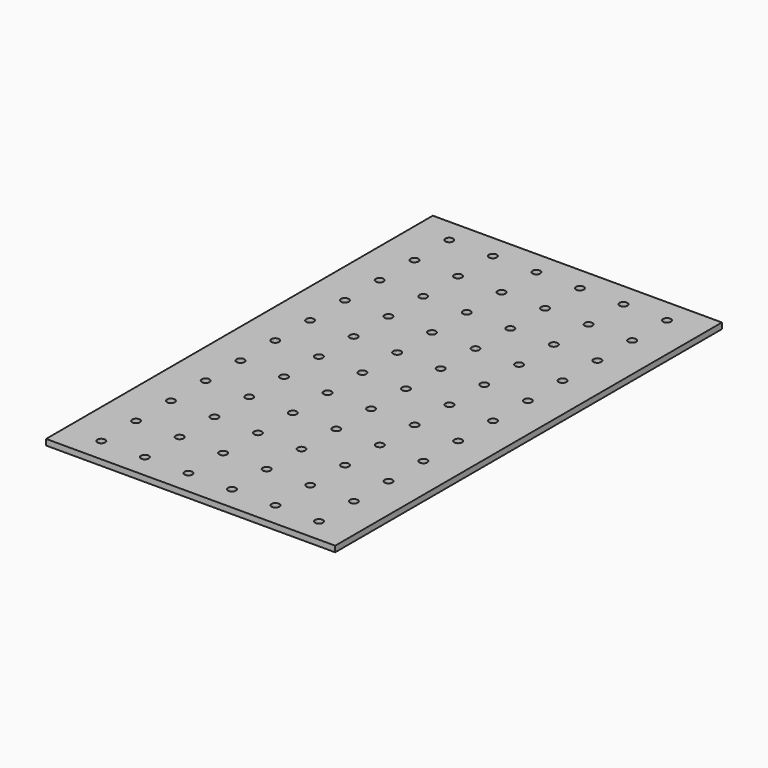
from build123d import *

# Parameters (mm, degrees)
SKETCH_W      = 295.275
SKETCH_H      = 493.7252
SKETCH_R      = 3.9751
EXTRUDE_DEPTH = 5.9944


with BuildPart() as part:
    # Sketch → Extrude (new body)
    with BuildSketch(Plane.XY):
        with Locations((357.803921, -635.24574)):
            Rectangle(SKETCH_W, SKETCH_H)
        with Locations((246.691621, -412.99574)):
            Circle(SKETCH_R, mode=Mode.SUBTRACT)
        with Locations((291.141617, -412.976861)):
            Circle(SKETCH_R, mode=Mode.SUBTRACT)
        with Locations((335.591613, -412.957982)):
            Circle(SKETCH_R, mode=Mode.SUBTRACT)
        with Locations((380.041609, -412.939103)):
            Circle(SKETCH_R, mode=Mode.SUBTRACT)
        with Locations((424.491605, -412.920223)):
            Circle(SKETCH_R, mode=Mode.SUBTRACT)
        with Locations((468.941601, -412.901344)):
            Circle(SKETCH_R, mode=Mode.SUBTRACT)
        with Locations((246.7105, -457.445736)):
            Circle(SKETCH_R, mode=Mode.SUBTRACT)
        with Locations((291.160496, -457.426857)):
            Circle(SKETCH_R, mode=Mode.SUBTRACT)
        with Locations((335.610492, -457.407978)):
            Circle(SKETCH_R, mode=Mode.SUBTRACT)
        with Locations((380.060488, -457.389098)):
            Circle(SKETCH_R, mode=Mode.SUBTRACT)
        with Locations((424.510484, -457.370219)):
            Circle(SKETCH_R, mode=Mode.SUBTRACT)
        with Locations((468.96048, -457.35134)):
            Circle(SKETCH_R, mode=Mode.SUBTRACT)
        with Locations((246.729379, -501.895732)):
            Circle(SKETCH_R, mode=Mode.SUBTRACT)
        with Locations((291.179375, -501.876853)):
            Circle(SKETCH_R, mode=Mode.SUBTRACT)
        with Locations((335.629371, -501.857974)):
            Circle(SKETCH_R, mode=Mode.SUBTRACT)
        with Locations((380.079367, -501.839094)):
            Circle(SKETCH_R, mode=Mode.SUBTRACT)
        with Locations((424.529363, -501.820215)):
            Circle(SKETCH_R, mode=Mode.SUBTRACT)
        with Locations((468.979359, -501.801336)):
            Circle(SKETCH_R, mode=Mode.SUBTRACT)
        with Locations((246.748258, -546.345728)):
            Circle(SKETCH_R, mode=Mode.SUBTRACT)
        with Locations((291.198254, -546.326849)):
            Circle(SKETCH_R, mode=Mode.SUBTRACT)
        with Locations((335.64825, -546.30797)):
            Circle(SKETCH_R, mode=Mode.SUBTRACT)
        with Locations((380.098246, -546.28909)):
            Circle(SKETCH_R, mode=Mode.SUBTRACT)
        with Locations((424.548242, -546.270211)):
            Circle(SKETCH_R, mode=Mode.SUBTRACT)
        with Locations((468.998238, -546.251332)):
            Circle(SKETCH_R, mode=Mode.SUBTRACT)
        with Locations((246.767138, -590.795724)):
            Circle(SKETCH_R, mode=Mode.SUBTRACT)
        with Locations((291.217134, -590.776845)):
            Circle(SKETCH_R, mode=Mode.SUBTRACT)
        with Locations((335.66713, -590.757966)):
            Circle(SKETCH_R, mode=Mode.SUBTRACT)
        with Locations((380.117126, -590.739086)):
            Circle(SKETCH_R, mode=Mode.SUBTRACT)
        with Locations((424.567122, -590.720207)):
            Circle(SKETCH_R, mode=Mode.SUBTRACT)
        with Locations((469.017118, -590.701328)):
            Circle(SKETCH_R, mode=Mode.SUBTRACT)
        with Locations((246.786017, -635.24572)):
            Circle(SKETCH_R, mode=Mode.SUBTRACT)
        with Locations((291.236013, -635.226841)):
            Circle(SKETCH_R, mode=Mode.SUBTRACT)
        with Locations((335.686009, -635.207962)):
            Circle(SKETCH_R, mode=Mode.SUBTRACT)
        with Locations((380.136005, -635.189082)):
            Circle(SKETCH_R, mode=Mode.SUBTRACT)
        with Locations((424.586001, -635.170203)):
            Circle(SKETCH_R, mode=Mode.SUBTRACT)
        with Locations((469.035997, -635.151324)):
            Circle(SKETCH_R, mode=Mode.SUBTRACT)
        with Locations((246.804896, -679.695716)):
            Circle(SKETCH_R, mode=Mode.SUBTRACT)
        with Locations((291.254892, -679.676837)):
            Circle(SKETCH_R, mode=Mode.SUBTRACT)
        with Locations((335.704888, -679.657958)):
            Circle(SKETCH_R, mode=Mode.SUBTRACT)
        with Locations((380.154884, -679.639078)):
            Circle(SKETCH_R, mode=Mode.SUBTRACT)
        with Locations((424.60488, -679.620199)):
            Circle(SKETCH_R, mode=Mode.SUBTRACT)
        with Locations((469.054876, -679.60132)):
            Circle(SKETCH_R, mode=Mode.SUBTRACT)
        with Locations((246.823775, -724.145712)):
            Circle(SKETCH_R, mode=Mode.SUBTRACT)
        with Locations((291.273771, -724.126833)):
            Circle(SKETCH_R, mode=Mode.SUBTRACT)
        with Locations((335.723767, -724.107954)):
            Circle(SKETCH_R, mode=Mode.SUBTRACT)
        with Locations((380.173763, -724.089074)):
            Circle(SKETCH_R, mode=Mode.SUBTRACT)
        with Locations((424.623759, -724.070195)):
            Circle(SKETCH_R, mode=Mode.SUBTRACT)
        with Locations((469.073755, -724.051316)):
            Circle(SKETCH_R, mode=Mode.SUBTRACT)
        with Locations((246.842655, -768.595708)):
            Circle(SKETCH_R, mode=Mode.SUBTRACT)
        with Locations((291.292651, -768.576829)):
            Circle(SKETCH_R, mode=Mode.SUBTRACT)
        with Locations((335.742647, -768.55795)):
            Circle(SKETCH_R, mode=Mode.SUBTRACT)
        with Locations((380.192643, -768.53907)):
            Circle(SKETCH_R, mode=Mode.SUBTRACT)
        with Locations((424.642639, -768.520191)):
            Circle(SKETCH_R, mode=Mode.SUBTRACT)
        with Locations((469.092635, -768.501312)):
            Circle(SKETCH_R, mode=Mode.SUBTRACT)
        with Locations((246.861534, -813.045704)):
            Circle(SKETCH_R, mode=Mode.SUBTRACT)
        with Locations((291.31153, -813.026825)):
            Circle(SKETCH_R, mode=Mode.SUBTRACT)
        with Locations((335.761526, -813.007946)):
            Circle(SKETCH_R, mode=Mode.SUBTRACT)
        with Locations((380.211522, -812.989066)):
            Circle(SKETCH_R, mode=Mode.SUBTRACT)
        with Locations((424.661518, -812.970187)):
            Circle(SKETCH_R, mode=Mode.SUBTRACT)
        with Locations((469.111514, -812.951308)):
            Circle(SKETCH_R, mode=Mode.SUBTRACT)
        with Locations((246.880413, -857.4957)):
            Circle(SKETCH_R, mode=Mode.SUBTRACT)
        with Locations((291.330409, -857.476821)):
            Circle(SKETCH_R, mode=Mode.SUBTRACT)
        with Locations((335.780405, -857.457942)):
            Circle(SKETCH_R, mode=Mode.SUBTRACT)
        with Locations((380.230401, -857.439062)):
            Circle(SKETCH_R, mode=Mode.SUBTRACT)
        with Locations((424.680397, -857.420183)):
            Circle(SKETCH_R, mode=Mode.SUBTRACT)
        with Locations((469.130393, -857.401304)):
            Circle(SKETCH_R, mode=Mode.SUBTRACT)
    extrude(amount=EXTRUDE_DEPTH)


solid = part.part
